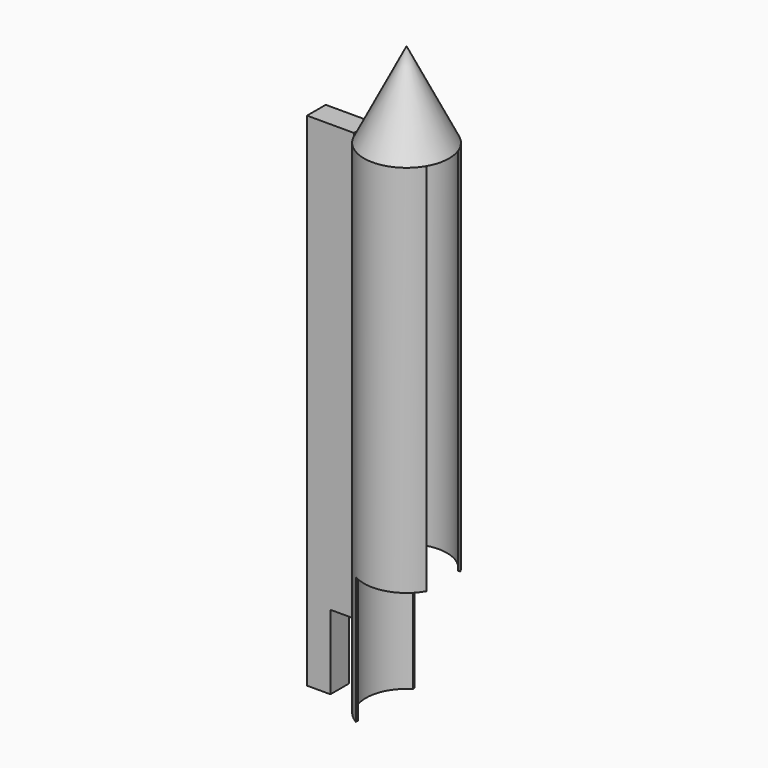
from build123d import *

# Parameters (mm, degrees)
BOX003_W          = 22
BOX003_H          = 60
BOX003_DEPTH      = 70
BOX002_W          = 44
BOX002_H          = 22
BOX002_DEPTH      = 472
BOX001_W          = 60
BOX001_H          = 40
BOX001_DEPTH      = 472
BOX_W             = 100
BOX_H             = 100
BOX_DEPTH         = 120
CYLINDER001_R     = 38
CYLINDER001_DEPTH = 500
CYLINDER_R        = 40
CYLINDER_DEPTH    = 472


with BuildPart() as rocket_cap:
    # Cone → Cone (revolve)
    with BuildSketch(Plane(origin=(0, 0, 472), x_dir=(1, 0, 0), z_dir=(0, -1, 0))):
        Polygon((0, 0), (40, 0), (0, 80), align=None)
    revolve(axis=Axis((0, 0, 472), (0, 0, 1)))


with BuildPart() as holder_opening:
    # Box003 → Box003 (new body)
    with BuildSketch(Plane(origin=(-62, -30, 0), x_dir=(1, 0, 0), z_dir=(0, 0, 1))):
        with Locations((11, 30)):
            Rectangle(BOX003_W, BOX003_H)
    extrude(amount=BOX003_DEPTH)


with BuildPart() as holder_final:
    # Box002 → Box002 (new body)
    with BuildSketch(Plane(origin=(-84, -12, 0), x_dir=(1, 0, 0), z_dir=(0, 0, 1))):
        with Locations((22, 11)):
            Rectangle(BOX002_W, BOX002_H)
    extrude(amount=BOX002_DEPTH)

    # Cut002: cut holder_opening
    add(holder_opening.part, mode=Mode.SUBTRACT)


with BuildPart() as opening2:
    # Box001 → Box001 (new body)
    with BuildSketch(Plane(origin=(0, -20, 0), x_dir=(1, 0, 0), z_dir=(0, 0, 1))):
        with Locations((30, 20)):
            Rectangle(BOX001_W, BOX001_H)
    extrude(amount=BOX001_DEPTH)


with BuildPart() as opening_final:
    # Box → Box (new body)
    with BuildSketch(Plane(origin=(-20, -50, 0), x_dir=(1, 0, 0), z_dir=(0, 0, 1))):
        with Locations((50, 50)):
            Rectangle(BOX_W, BOX_H)
    extrude(amount=BOX_DEPTH)

    # Fusion: union opening2
    add(opening2.part)


with BuildPart() as rocket_cylinder_inside:
    # Cylinder001 → Cylinder001 (new body)
    with BuildSketch(Plane.XY.offset(-10)):
        Circle(CYLINDER001_R)
    extrude(amount=CYLINDER001_DEPTH)


with BuildPart() as rocket:
    # Cylinder → Cylinder (new body)
    with BuildSketch(Plane.XY):
        Circle(CYLINDER_R)
    extrude(amount=CYLINDER_DEPTH)

    # Cut: cut rocket_cylinder_inside
    add(rocket_cylinder_inside.part, mode=Mode.SUBTRACT)

    # Cut001: cut opening_final
    add(opening_final.part, mode=Mode.SUBTRACT)

    # Fusion001: union rocket_cap, holder_final
    add(rocket_cap.part)
    add(holder_final.part)


solid = rocket.part
